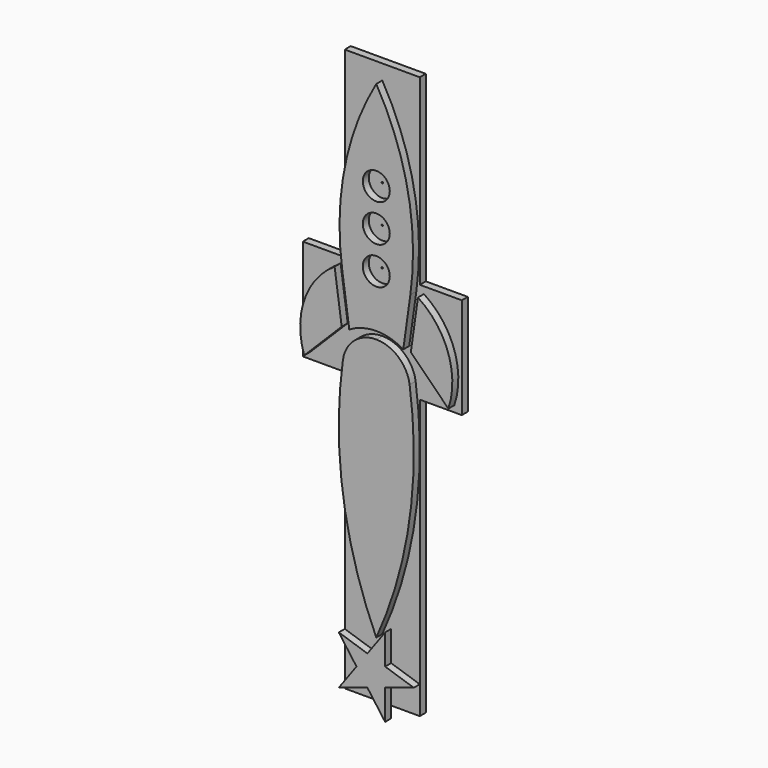
from build123d import *

# Parameters (mm, degrees)
F0_R     = 9
F1_DEPTH = 5
F2_R     = 0.5
F2_W     = 28
F2_H     = 67.402362
F3_DEPTH = 5
F5_DEPTH = 5


with BuildPart() as f1:
    # F0 (on Front) → F1 (new body)
    with BuildSketch(Plane.XZ):
        with BuildLine():
            ThreePointArc((186.5, 25), (204.5, 29.983338), (222.5, 25))
            Line((222.5, 25), (227.23391, 58.68352))
            ThreePointArc((227.23391, 58.68352), (225.63008, 118.749951), (204.5, 175))
            ThreePointArc((204.5, 175), (183.36992, 118.749951), (181.76609, 58.68352))
            Line((181.76609, 58.68352), (186.5, 25))
        make_face()
        with Locations((204.5, 65)):
            Circle(F0_R, mode=Mode.SUBTRACT)
        with Locations((204.5, 90)):
            Circle(F0_R, mode=Mode.SUBTRACT)
        with Locations((204.5, 115)):
            Circle(F0_R, mode=Mode.SUBTRACT)
        with BuildLine():
            Line((232.283048, 58.68352), (227.549138, 25))
            Line((227.549138, 25), (252.549138, 0))
            ThreePointArc((252.549138, 0), (252.443394, 32.804643), (232.283048, 58.68352))
        make_face()
        with BuildLine():
            ThreePointArc((204.5, -150), (226.654024, -73.745748), (226.746456, 5.661451))
            ThreePointArc((226.746456, 5.661451), (219.238422, 19.48953), (204.5, 25))
            ThreePointArc((204.5, 25), (189.761578, 19.48953), (182.253544, 5.661451))
            ThreePointArc((182.253544, 5.661451), (182.345976, -73.745748), (204.5, -150))
        make_face()
        with BuildLine():
            Line((156.450862, 0), (181.450862, 25))
            Line((181.450862, 25), (176.716952, 58.68352))
            ThreePointArc((176.716952, 58.68352), (156.556606, 32.804643), (156.450862, 0))
        make_face()
    extrude(amount=F1_DEPTH)


with BuildPart() as f3:
    # F2 (on Front) → F3 (new body)
    with BuildSketch(Plane.XZ):
        Polygon((229.5, 185), (179.5, 185), (179.5, 63.185245), (179.5, -4.217117), (179.5, -190), (229.5, -190), (229.5, -4.217117), (229.5, 63.185245), align=None)
        with Locations((204.5, 65)):
            Circle(F2_R, mode=Mode.SUBTRACT)
        with Locations((204.5, 90)):
            Circle(F2_R, mode=Mode.SUBTRACT)
        with Locations((204.5, 115)):
            Circle(F2_R, mode=Mode.SUBTRACT)
        with Locations((165.5, 29.484064)):
            Rectangle(F2_W, F2_H)
        with Locations((243.5, 29.484064)):
            Rectangle(F2_W, F2_H)
    extrude(amount=-F3_DEPTH)

    # F4 (on Front) → F5 (join)
    with BuildSketch(Plane.XZ):
        Polygon((198.598301, -161.245985), (179.5, -155.040571), (191.303399, -171.286556), (179.5, -187.53254), (198.598301, -181.327126), (210.401699, -197.573111), (210.401699, -177.49197), (229.5, -171.286556), (210.401699, -165.081142), (210.401699, -145), align=None)
    extrude(amount=F5_DEPTH)


solid = Compound([f1.part, f3.part])
